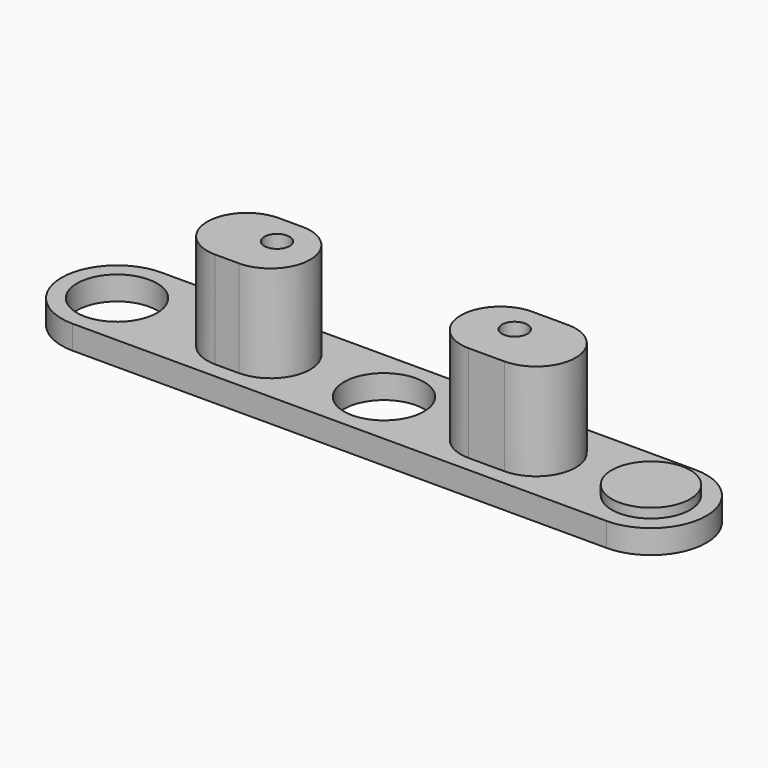
from build123d import *

# Parameters (mm, degrees)
PAD008_DEPTH    = 3
PAD009_DEPTH    = 15.2
SKETCH025_R     = 5.05
SKETCH025_R_2   = 1.6
POCKET_DEPTH    = 15.2
SKETCH026_R     = 4.95
PAD010_DEPTH    = 1.2
SKETCH027_R     = 3.45
POCKET001_DEPTH = 13


with BuildPart() as leftdrivegearretainerbody:
    # Sketch023 → Pad008 (new body)
    with BuildSketch(Plane.XY.offset(12.2)):
        with BuildLine():
            ThreePointArc((-67.387162, 7), (-74.387162, 0), (-67.387162, -7))
            Line((-67.387162, -7), (0, -7))
            ThreePointArc((0, -7), (7, 0), (0, 7))
            Line((-67.387162, 7), (0, 7))
        make_face()
    extrude(amount=PAD008_DEPTH)

    # Sketch024 → Pad009 (join)
    with BuildSketch(Plane.XY):
        with BuildLine():
            ThreePointArc((-19, 5), (-24, 0), (-19, -5))
            Line((-19, -5), (-14.5, -5))
            ThreePointArc((-14.5, -5), (-9.5, 0), (-14.5, 5))
            Line((-19, 5), (-14.5, 5))
        make_face()
        with BuildLine():
            ThreePointArc((-51, 5), (-56, 0), (-51, -5))
            Line((-51, -5), (-48, -5))
            ThreePointArc((-48, -5), (-43, 0), (-48, 5))
            Line((-51, 5), (-48, 5))
        make_face()
    extrude(amount=PAD009_DEPTH)

    # Sketch025 → Pocket (cut)
    with BuildSketch(Plane.XY):
        with Locations((-33.693581, 0)):
            Circle(SKETCH025_R)
        with Locations((-67.387162, 0)):
            Circle(SKETCH025_R)
        with Locations((-18, 1)):
            Circle(SKETCH025_R_2)
        with Locations((-48, 1)):
            Circle(SKETCH025_R_2)
    extrude(amount=POCKET_DEPTH, mode=Mode.SUBTRACT)

    # Sketch026 → Pad010 (join)
    with BuildSketch(Plane.XY.offset(12.2)):
        Circle(SKETCH026_R)
    extrude(amount=-PAD010_DEPTH)

    # Sketch027 → Pocket001 (cut)
    with BuildSketch(Plane.XY.offset(15.2)):
        with Locations((-18, 1)):
            Circle(SKETCH027_R)
        with Locations((-48, 1)):
            Circle(SKETCH027_R)
    extrude(amount=-POCKET001_DEPTH, mode=Mode.SUBTRACT)


with BuildPart() as rightdrivegearretainer:
    # Part__Mirroring004: instance of LeftDriveGearRetainerBody
    add(leftdrivegearretainerbody.part.mirror(Plane(origin=(0, 0, 0), x_dir=(0, 1, 0), z_dir=(0, 0, 1))))


solid = rightdrivegearretainer.part
